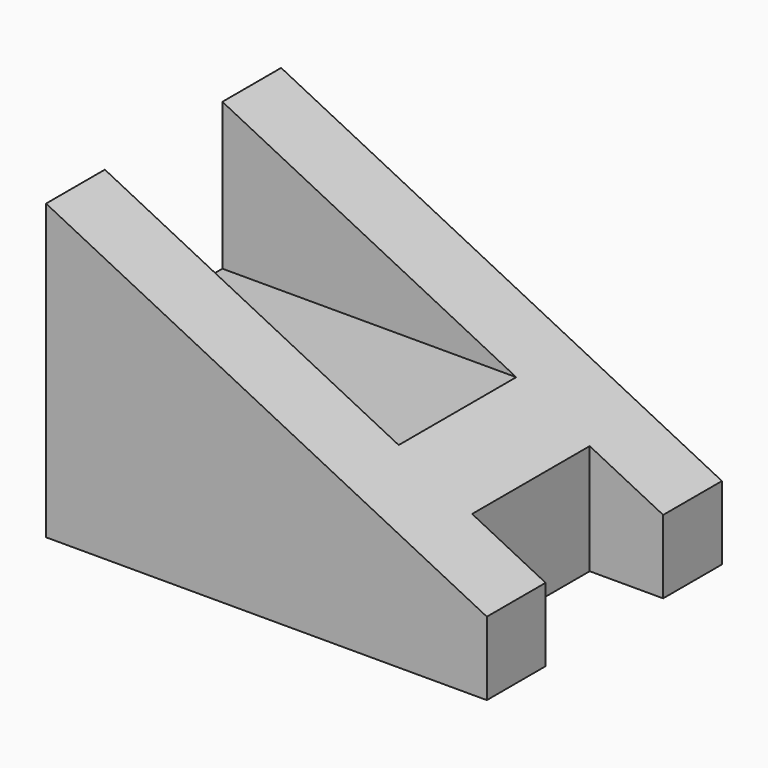
from build123d import *

# Parameters (mm, degrees)
F1_DEPTH = 10
F2_DEPTH = 5


with BuildPart() as f1:
    # F0 (on Front) → F1 (new body, symmetric)
    with BuildSketch(Plane.XZ):
        Polygon((0, 10), (0, 0), (25, 0), (25, 7.5), (20, 10), align=None)
        Polygon((0, 20), (0, 10), (20, 10), align=None)
        Polygon((25, 7.5), (25, 0), (30, 0), (30, 5), align=None)
    extrude(amount=F1_DEPTH, both=True)

    # F0 (on Front) → F2 (cut, symmetric)
    with BuildSketch(Plane.XZ):
        Polygon((0, 20), (0, 10), (20, 10), align=None)
        Polygon((25, 7.5), (25, 0), (30, 0), (30, 5), align=None)
    extrude(amount=F2_DEPTH, both=True, mode=Mode.SUBTRACT)


solid = f1.part
